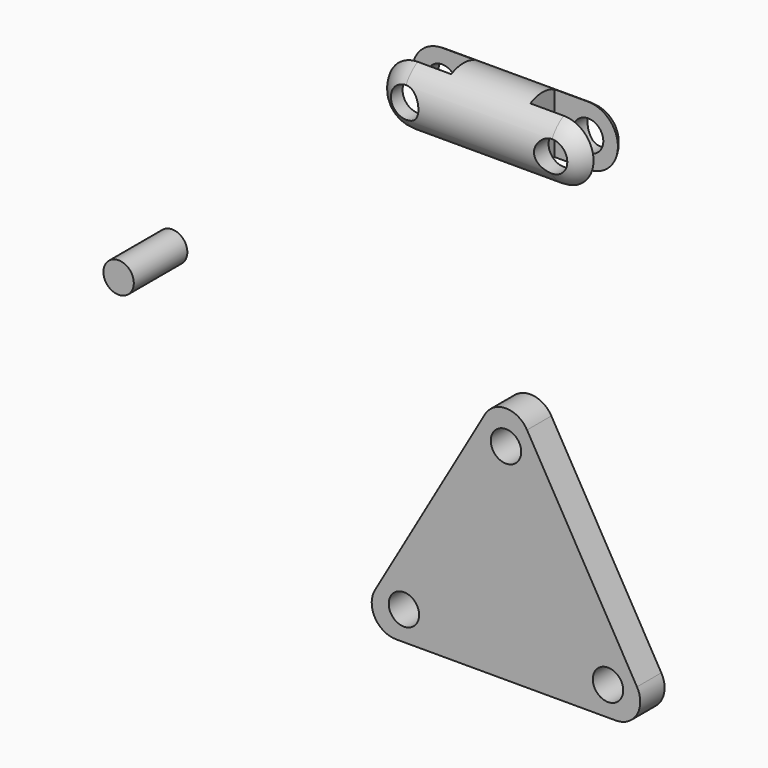
from build123d import *

# Parameters (mm, degrees)
F0_R      = 5
F1_DEPTH  = 5
F2_R      = 11
F3_DEPTH  = 70
F4_R      = 11
F5_R      = 5
F6_DEPTH  = 12.5
F12_W     = 10
F12_H     = 26.94445
F13_DEPTH = 22
F16_R     = 5
F17_DEPTH = 11


with BuildPart() as f1:
    # F0 (on Front) → F1 (new body, symmetric)
    with BuildSketch(Plane.XZ):
        with BuildLine():
            ThreePointArc((-43.071797, -30.995233), (-43.071797, -38.995233), (-36.143594, -42.995233))
            Line((-36.143594, -42.995233), (36.143594, -42.995233))
            ThreePointArc((36.143594, -42.995233), (43.071797, -38.995233), (43.071797, -30.995233))
            Line((43.071797, -30.995233), (6.928203, 31.607308))
            ThreePointArc((6.928203, 31.607308), (0, 35.607308), (-6.928203, 31.607308))
            Line((-6.928203, 31.607308), (-43.071797, -30.995233))
        make_face()
        with Locations((-33.545517, -33.495233)):
            Circle(F0_R, mode=Mode.SUBTRACT)
        with Locations((33.545517, -33.495233)):
            Circle(F0_R, mode=Mode.SUBTRACT)
        with Locations((0, 24.607308)):
            Circle(F0_R, mode=Mode.SUBTRACT)
    extrude(amount=F1_DEPTH, both=True)


with BuildPart() as f3:
    # F2 (on Right) → F3 (new body)
    with BuildSketch(Plane.YZ):
        with Locations((-50, 150)):
            Circle(F2_R)
    extrude(amount=F3_DEPTH)

    # F4
    f4_edges = [f3.edges().sort_by_distance(p)[0] for p in [
        (70, -61, 150),
        (0, -61, 150),
    ]]
    fillet(f4_edges, radius=F4_R)


with BuildPart() as f6:
    # F5 (on Front) → F6 (new body, symmetric)
    with BuildSketch(Plane.XZ):
        with Locations((11, 150)):
            Circle(F5_R)
    extrude(amount=F6_DEPTH, both=True)


with BuildPart() as f7_1:
    # F7: copy of F6
    add(f6.part)


with BuildPart() as f6_1:
    # F9: moved
    add(f6.part.moved(Location((0, -50, 0))))


with BuildPart() as f10_1:
    # F10: copy of F6
    add(f6_1.part.moved(Location((48, 0, 0))))


with BuildPart() as f3_1:
    add(f3.part)

    # F11: cut F6, F10_1
    add(f6_1.part, mode=Mode.SUBTRACT)
    add(f10_1.part, mode=Mode.SUBTRACT)


with BuildPart() as f13:
    # F12 (on Right) → F13 (new body)
    with BuildSketch(Plane.YZ):
        with Locations((-50, 150)):
            Rectangle(F12_W, F12_H)
    extrude(amount=F13_DEPTH)


with BuildPart() as f14_1:
    # F14: copy of F13
    add(f13.part.moved(Location((48, 0, 0))))


with BuildPart() as f3_2:
    add(f3_1.part)

    # F15: cut F13, F14_1
    add(f13.part, mode=Mode.SUBTRACT)
    add(f14_1.part, mode=Mode.SUBTRACT)


with BuildPart() as f17:
    # F16 (on Front) → F17 (new body, symmetric)
    with BuildSketch(Plane.XZ):
        with Locations((-122.551352, 36.058377)):
            Circle(F16_R)
    extrude(amount=F17_DEPTH, both=True)


solid = Compound([f1.part, f3_2.part, f17.part])
